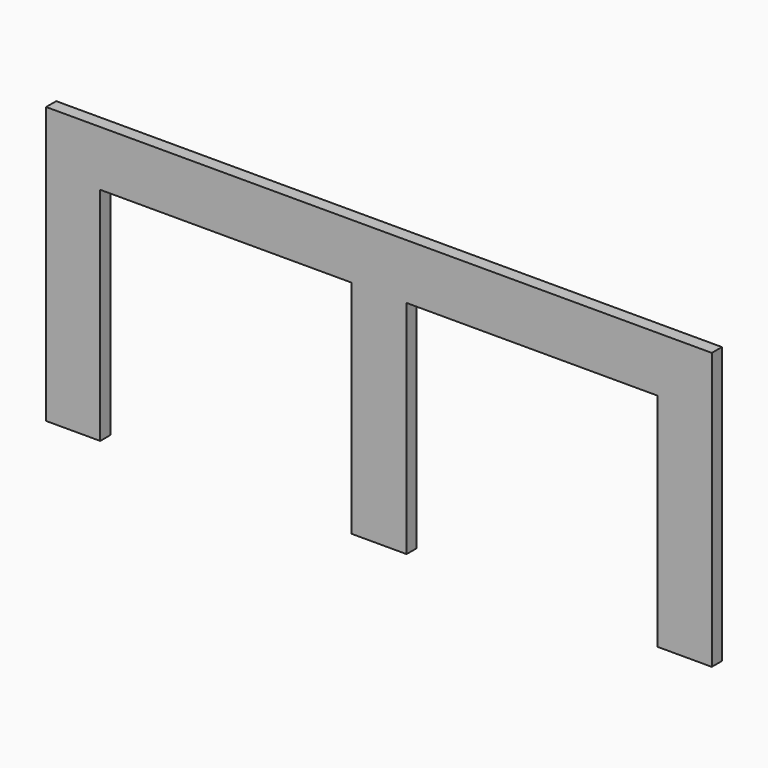
from build123d import *

# Parameters (mm, degrees)
F0_W     = 7340.6
F0_H     = 3048
F2_DEPTH = 139.7
F1_W     = 2768.6
F1_H     = 2438.4
F3_DEPTH = 139.701


with BuildPart() as f2:
    # F0 (on Front) → F2 (new body)
    with BuildSketch(Plane.XZ):
        with Locations((3670.3, 1524)):
            Rectangle(F0_W, F0_H)
    extrude(amount=-F2_DEPTH)

    # F1 (on face) → F3 (cut, through all)
    with BuildSketch(Plane.XZ):
        with Locations((1981.2, 1219.2)):
            Rectangle(F1_W, F1_H)
        with Locations((5359.4, 1219.2)):
            Rectangle(F1_W, F1_H)
    extrude(amount=-F3_DEPTH, mode=Mode.SUBTRACT)


solid = f2.part
